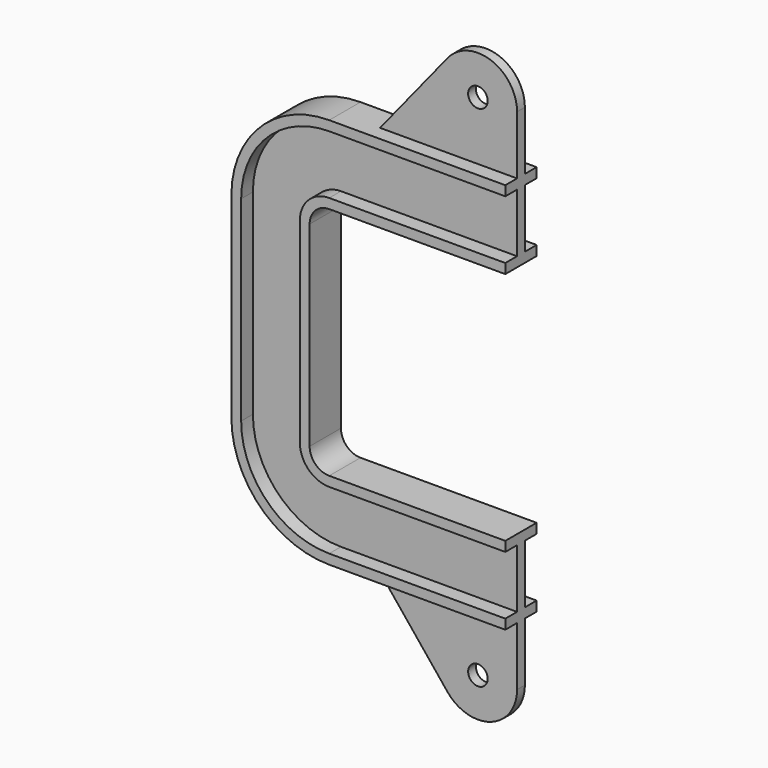
from build123d import *

# Parameters (mm, degrees)
F3_R     = 5
F4_DEPTH = 2.5


with BuildPart() as f2:
    # F2: sweep along a path in F0
    with BuildLine(Plane.XZ) as f2_path:
        Line((0, 60), (-90, 60))
        ThreePointArc((-90, 60), (-97.071068, 57.071068), (-100, 50))
        Line((-100, 50), (-100, 0))
    # F1 (on Right) → F2 (sweep)
    with BuildSketch(Plane.YZ):
        Polygon((-10, 60), (0, 60), (10, 60), (10, 65), (2.5, 65), (2.5, 95), (10, 95), (10, 100), (0, 100), (-10, 100), (-10, 95), (-2.5, 95), (-2.5, 65), (-10, 65), align=None)
    sweep(path=f2_path.line)

    # F3 (on Front) → F4 (join, symmetric)
    with BuildSketch(Plane.XZ):
        with BuildLine():
            Line((-70, 100), (0, 100))
            Line((0, 100), (0, 130))
            ThreePointArc((0, 130), (-13.327703, 148.854189), (-35.548045, 142.580075))
            Line((-35.548045, 142.580075), (-70, 100))
        make_face()
        with Locations((-20, 130)):
            Circle(F3_R, mode=Mode.SUBTRACT)
    extrude(amount=F4_DEPTH, both=True)

    # F5: F2 across plane


with BuildPart() as f2_1:
    add(f2.part)
    add(f2.part.mirror(Plane.XY))


solid = f2_1.part
